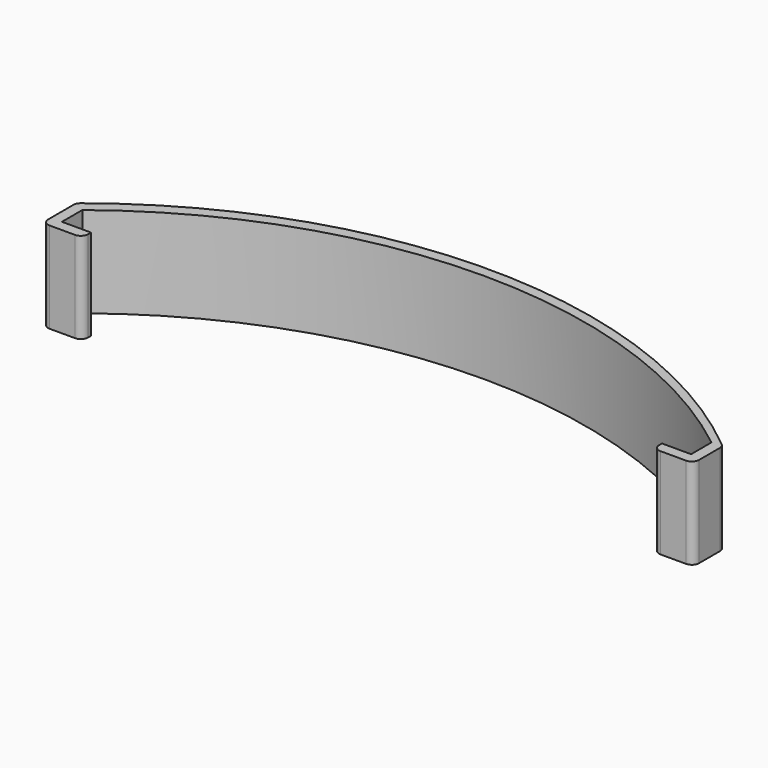
from build123d import *

# Parameters (mm, degrees)
F1_DEPTH = 25


with BuildPart() as f1:
    # F0 (on Top) → F1 (new body)
    with BuildSketch(Plane.XY):
        with BuildLine():
            Line((0, -1), (0, 0))
            Line((0, 0), (-8, 0))
            Line((-8, 0), (-8, 7))
            ThreePointArc((-8, 7), (78.5, 37), (165, 7))
            Line((165, 7), (165, 0))
            Line((165, 0), (157, 0))
            Line((157, 0), (157, -1))
            ThreePointArc((157, -1), (157.585786, -2.414214), (159, -3))
            Line((159, -3), (166, -3))
            ThreePointArc((166, -3), (167.414214, -2.414214), (168, -1))
            Line((168, -1), (168, 6.144608))
            ThreePointArc((168, 6.144608), (167.809737, 6.995991), (167.275147, 7.685387))
            ThreePointArc((167.275147, 7.685387), (78.796066, 39.997661), (-10.247356, 9.274711))
            ThreePointArc((-10.247356, 9.274711), (-10.802042, 8.578899), (-11, 7.711348))
            Line((-11, 7.711348), (-11, -1))
            ThreePointArc((-11, -1), (-10.414214, -2.414214), (-9, -3))
            Line((-9, -3), (-2, -3))
            ThreePointArc((-2, -3), (-0.585786, -2.414214), (0, -1))
        make_face()
    extrude(amount=F1_DEPTH)


solid = f1.part
